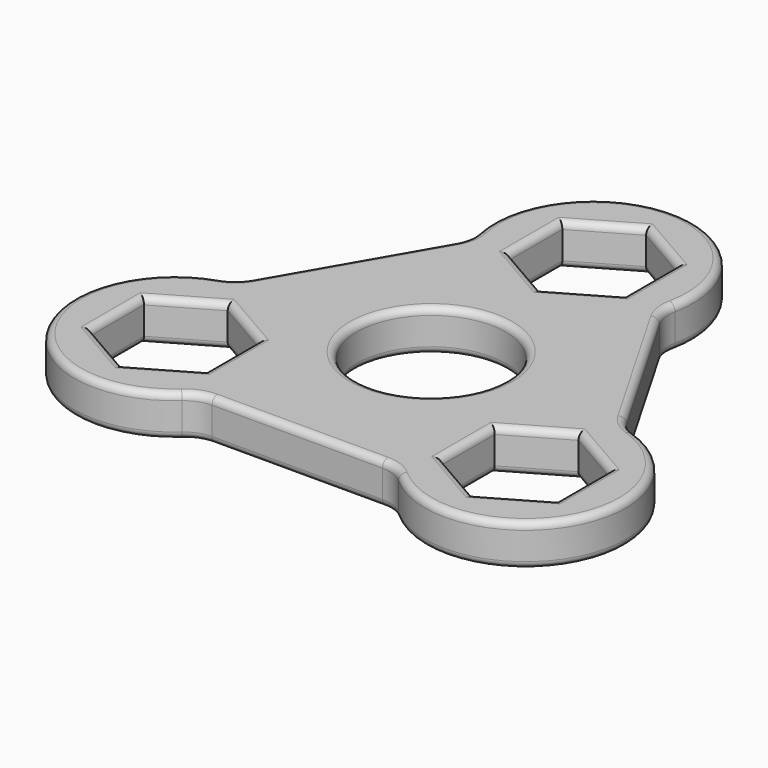
from build123d import *

# Parameters (mm, degrees)
F0_R     = 10.8
F1_DEPTH = 6
F2_R     = 1


with BuildPart() as f1:
    # F0 (on Top) → F1 (new body)
    with BuildSketch(Plane.XY):
        with BuildLine():
            ThreePointArc((14.852192, 22.875248), (14.244908, 24.586598), (14.288871, 26.401971))
            ThreePointArc((14.288871, 26.401971), (0, 44), (-14.288871, 26.401971))
            ThreePointArc((-14.288871, 26.401971), (-14.244908, 24.586598), (-14.852192, 22.875248))
            Line((-14.852192, 22.875248), (-27.236642, 1.424752))
            ThreePointArc((-27.236642, 1.424752), (-28.415072, 0.043153), (-30.009213, -0.826461))
            ThreePointArc((-30.009213, -0.826461), (-38.105118, -22), (-15.720342, -25.57551))
            ThreePointArc((-15.720342, -25.57551), (-14.170164, -24.629751), (-12.38445, -24.3))
            Line((-12.38445, -24.3), (12.38445, -24.3))
            ThreePointArc((12.38445, -24.3), (14.170164, -24.629751), (15.720342, -25.57551))
            ThreePointArc((15.720342, -25.57551), (38.105118, -22), (30.009213, -0.826461))
            ThreePointArc((30.009213, -0.826461), (28.415072, 0.043153), (27.236642, 1.424752))
            Line((27.236642, 1.424752), (14.852192, 22.875248))
        make_face()
        Polygon((-33.774991, -9.9), (-25.461147, -5.1), (-17.147303, -9.9), (-17.147303, -19.5), (-25.461147, -24.3), (-33.774991, -19.5), align=None, mode=Mode.SUBTRACT)
        Polygon((25.461147, -24.3), (17.147303, -19.5), (17.147303, -9.9), (25.461147, -5.1), (33.774991, -9.9), (33.774991, -19.5), align=None, mode=Mode.SUBTRACT)
        Circle(F0_R, mode=Mode.SUBTRACT)
        Polygon((0, 39), (8.313844, 34.2), (8.313844, 24.6), (0, 19.8), (-8.313844, 24.6), (-8.313844, 34.2), align=None, mode=Mode.SUBTRACT)
    extrude(amount=F1_DEPTH)

    # F2
    f2_edges = [f1.edges().sort_by_distance(p)[0] for p in [
        (14.244908, 24.586598, 6),
        (0, 44, 6),
        (-14.244908, 24.586598, 6),
        (-21.044417, 12.15, 6),
        (-28.415072, 0.043153, 6),
        (-38.105118, -22, 6),
        (-14.170164, -24.629751, 6),
        (0, -24.3, 6),
        (14.170164, -24.629751, 6),
        (38.105118, -22, 6),
        (28.415072, 0.043153, 6),
        (21.044417, 12.15, 6),
        (-33.774991, -14.7, 6),
        (-29.618069, -7.5, 6),
        (-21.304225, -7.5, 6),
        (-17.147303, -14.7, 6),
        (-21.304225, -21.9, 6),
        (-29.618069, -21.9, 6),
        (21.304225, -21.9, 6),
        (17.147303, -14.7, 6),
        (21.304225, -7.5, 6),
        (29.618069, -7.5, 6),
        (33.774991, -14.7, 6),
        (29.618069, -21.9, 6),
        (-10.8, 0, 6),
        (-8.313844, 29.4, 6),
        (-4.156922, 36.6, 6),
        (4.156922, 36.6, 6),
        (8.313844, 29.4, 6),
        (4.156922, 22.2, 6),
        (-4.156922, 22.2, 6),
        (-21.044417, 12.15, 0),
        (14.244908, 24.586598, 0),
        (0, 44, 0),
        (-14.244908, 24.586598, 0),
        (-28.415072, 0.043153, 0),
        (-38.105118, -22, 0),
        (-14.170164, -24.629751, 0),
        (0, -24.3, 0),
        (14.170164, -24.629751, 0),
        (38.105118, -22, 0),
        (28.415072, 0.043153, 0),
        (21.044417, 12.15, 0),
        (-33.774991, -14.7, 0),
        (-29.618069, -7.5, 0),
        (-21.304225, -7.5, 0),
        (-17.147303, -14.7, 0),
        (-21.304225, -21.9, 0),
        (-29.618069, -21.9, 0),
        (21.304225, -21.9, 0),
        (17.147303, -14.7, 0),
        (21.304225, -7.5, 0),
        (29.618069, -7.5, 0),
        (33.774991, -14.7, 0),
        (29.618069, -21.9, 0),
        (-10.8, 0, 0),
        (-8.313844, 29.4, 0),
        (-4.156922, 36.6, 0),
        (4.156922, 36.6, 0),
        (8.313844, 29.4, 0),
        (4.156922, 22.2, 0),
        (-4.156922, 22.2, 0),
    ]]
    fillet(f2_edges, radius=F2_R)


solid = f1.part
